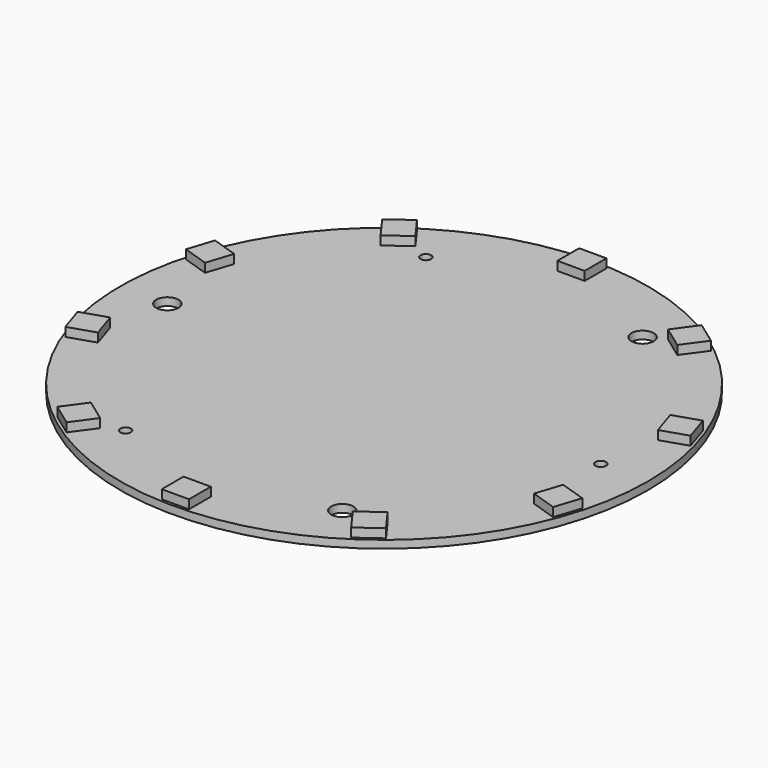
from build123d import *

# Parameters (mm, degrees)
F0_R      = 47.5
F1_DEPTH  = 1.4
F3_W      = 4.9
F3_H      = 4.9
F4_DEPTH  = 1.6
F5_R      = 2
F5_R_2    = 0.95
F6_DEPTH  = 1.401
F7_W      = 27.5
F7_H      = 17
F8_DEPTH  = 10
F9_W      = 14
F9_H      = 23
F10_DEPTH = 3
F11_W     = 8
F11_H     = 8
F12_DEPTH = 2
F13_W     = 6.5
F13_H     = 6.5
F14_DEPTH = 4
F15_R     = 1.932213
F16_DEPTH = 3


with BuildPart() as f1:
    # F0 (on Top) → F1 (new body)
    with BuildSketch(Plane.XY):
        Circle(F0_R)
    extrude(amount=F1_DEPTH)

    # F3 (on face) → F4 (join)
    with BuildSketch(Plane.XY.offset(1.4)):
        with Locations((0, 44.5)):
            Rectangle(F3_W, F3_H)
        Polygon((-22.734278, 35.459238), (-25.614426, 39.423422), (-29.578609, 36.543274), (-26.698461, 32.579091), align=None)
        Polygon((-39.234835, 15.324253), (-43.895012, 16.838436), (-45.409195, 12.178259), (-40.749018, 10.664076), align=None)
        Polygon((-40.749018, -10.664076), (-45.409195, -12.178259), (-43.895012, -16.838436), (-39.234835, -15.324253), align=None)
        Polygon((-26.698461, -32.579091), (-29.578609, -36.543274), (-25.614426, -39.423422), (-22.734278, -35.459238), align=None)
        with Locations((0, -44.5)):
            Rectangle(F3_W, F3_H)
        Polygon((22.734278, -35.459238), (25.614426, -39.423422), (29.578609, -36.543274), (26.698461, -32.579091), align=None)
        Polygon((39.234835, -15.324253), (43.895012, -16.838436), (45.409195, -12.178259), (40.749018, -10.664076), align=None)
        Polygon((40.749018, 10.664076), (45.409195, 12.178259), (43.895012, 16.838436), (39.234835, 15.324253), align=None)
        Polygon((26.698461, 32.579091), (29.578609, 36.543274), (25.614426, 39.423422), (22.734278, 35.459238), align=None)
    extrude(amount=F4_DEPTH)

    # F5 (on face) → F6 (cut, through all)
    with BuildSketch(Plane.XY.offset(1.4)):
        with Locations((-39, 0)):
            Circle(F5_R)
        with Locations((19.5, -33.774991)):
            Circle(F5_R)
        with Locations((19.5, 33.774991)):
            Circle(F5_R)
        with Locations((39, 0)):
            Circle(F5_R_2)
        with Locations((-19.5, 33.774991)):
            Circle(F5_R_2)
        with Locations((-19.5, -33.774991)):
            Circle(F5_R_2)
    extrude(amount=-F6_DEPTH, mode=Mode.SUBTRACT)

    # F7 (on face) → F8 (join)
    with BuildSketch(Plane(origin=(0, 0, 0), x_dir=(1, 0, 0), z_dir=(0, 0, -1))):
        with Locations((0, -30.8)):
            Rectangle(F7_W, F7_H)
    extrude(amount=F8_DEPTH)

    # F9 (on face) → F10 (join)
    with BuildSketch(Plane(origin=(0, 0, 0), x_dir=(1, 0, 0), z_dir=(0, 0, -1))):
        with Locations((-25.821303, -15.041643)):
            Rectangle(F9_W, F9_H)
    extrude(amount=F10_DEPTH)

    # F11 (on face) → F12 (join)
    with BuildSketch(Plane(origin=(0, 0, 0), x_dir=(1, 0, 0), z_dir=(0, 0, -1))):
        with Locations((-0.047592, -0.053598)):
            Rectangle(F11_W, F11_H)
    extrude(amount=F12_DEPTH)

    # F13 (on face) → F14 (join)
    with BuildSketch(Plane(origin=(0, 0, 0), x_dir=(1, 0, 0), z_dir=(0, 0, -1))):
        with Locations((33.2, 0.101188)):
            Rectangle(F13_W, F13_H)
    extrude(amount=F14_DEPTH)

    # F15 (on face) → F16 (join)
    with BuildSketch(Plane(origin=(0, 0, -4), x_dir=(1, 0, 0), z_dir=(0, 0, -1))):
        with Locations((33.285893, 0)):
            Circle(F15_R)
    extrude(amount=F16_DEPTH)


solid = f1.part
